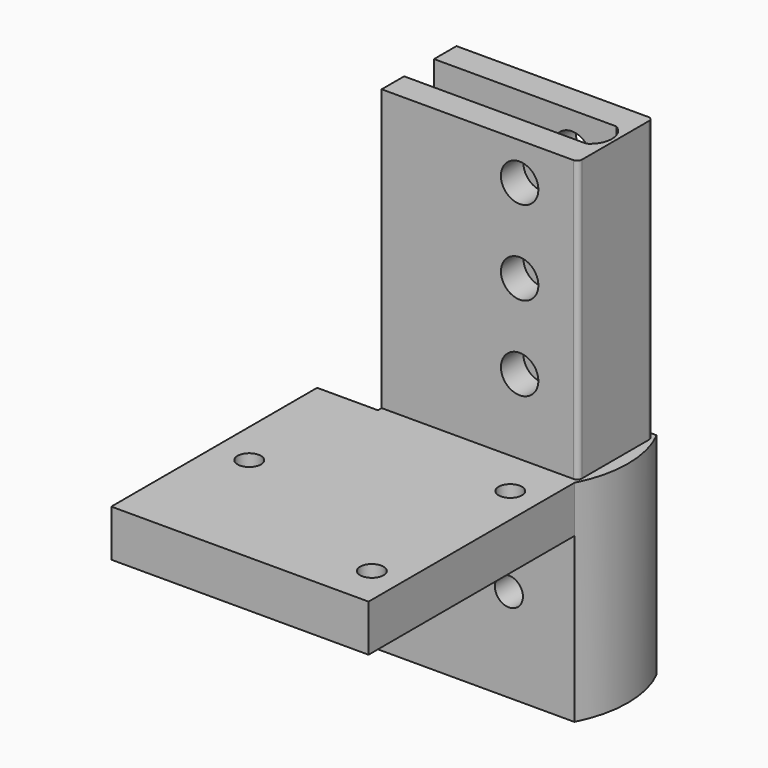
from build123d import *

# Parameters (mm, degrees)
PAD_DEPTH       = 45
SKETCH001_W     = 55
SKETCH001_H     = 10
PAD001_DEPTH    = 55
SKETCH002_R     = 3
POCKET_DEPTH    = 22
SKETCH003_R     = 2.5
POCKET001_DEPTH = 10
PAD002_DEPTH    = 60
SKETCH005_R     = 4
POCKET002_DEPTH = 20


with BuildPart() as part:
    # Sketch → Pad (new body)
    with BuildSketch(Plane.XY):
        with BuildLine():
            Line((0, 22), (42, 22))
            ThreePointArc((42, 0), (44.669271, 11), (42, 22))
            Line((42, 0), (0, 0))
            Line((0, 7), (0, 0))
            Line((38.9, 7), (0, 7))
            ThreePointArc((38.9, 7), (41.228437, 11), (38.9, 15))
            Line((0, 15), (38.9, 15))
            Line((0, 22), (0, 15))
        make_face()
    extrude(amount=PAD_DEPTH)

    # Sketch001 (on Face4 of Pad) → Pad001 (join)
    with BuildSketch(Plane.XZ):
        with Locations((14.5, 40)):
            Rectangle(SKETCH001_W, SKETCH001_H)
    extrude(amount=PAD001_DEPTH)

    # Sketch002 (on Face8 of Pad001) → Pocket (cut)
    with BuildSketch(Plane.XZ):
        with Locations((28, 20)):
            Circle(SKETCH002_R)
    extrude(amount=-POCKET_DEPTH, mode=Mode.SUBTRACT)

    # Sketch003 (on Face12 of Pocket) → Pocket001 (cut)
    with BuildSketch(Plane.XY.offset(45)):
        with Locations((35.5, -9)):
            Circle(SKETCH003_R)
        with Locations((35.5, -46)):
            Circle(SKETCH003_R)
        with Locations((-5.5, -27.5)):
            Circle(SKETCH003_R)
    extrude(amount=-POCKET001_DEPTH, mode=Mode.SUBTRACT)

    # Sketch004 (on Face5 of Pocket001) → Pad002 (join)
    with BuildSketch(Plane.XY.offset(45)):
        with BuildLine():
            Line((0, 21), (41, 21))
            ThreePointArc((42, 20), (41.707107, 20.707107), (41, 21))
            Line((42, 20), (42, 2))
            ThreePointArc((41, 1), (41.707107, 1.292893), (42, 2))
            Line((41, 1), (0, 1))
            Line((0, 1), (0, 7))
            Line((0, 7), (39, 7))
            ThreePointArc((39, 7), (41.232207, 11), (39, 15))
            Line((39, 15), (0, 15))
            Line((0, 15), (0, 21))
        make_face()
    extrude(amount=PAD002_DEPTH)

    # Sketch005 → Pocket002 (cut)
    with BuildSketch(Plane.XZ.offset(-1)):
        with Locations((29.5, 61)):
            Circle(SKETCH005_R)
        with Locations((29.5, 79)):
            Circle(SKETCH005_R)
        with Locations((29.5, 97)):
            Circle(SKETCH005_R)
    extrude(amount=-POCKET002_DEPTH, mode=Mode.SUBTRACT)


solid = part.part
